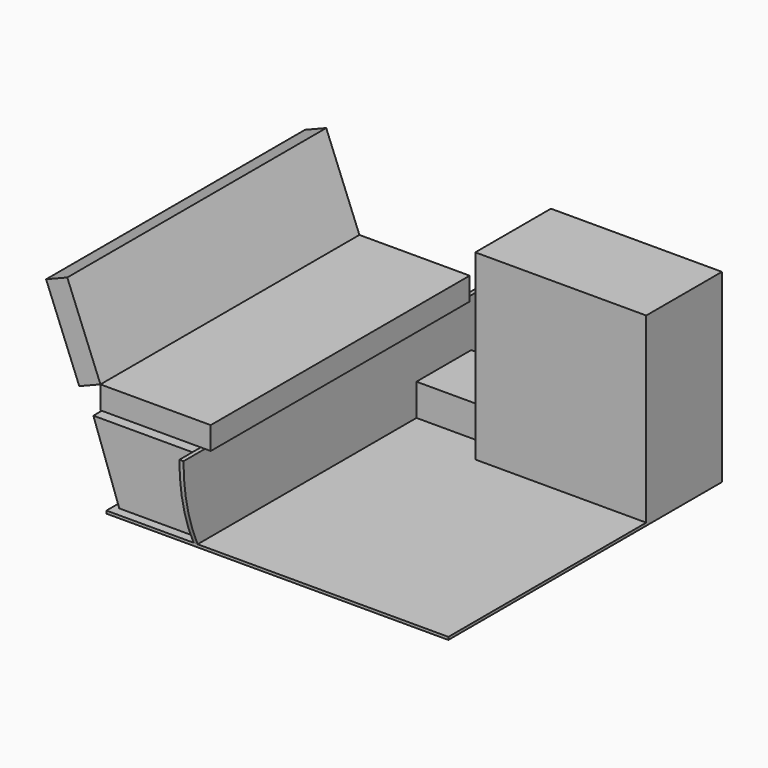
from build123d import *

# Parameters (mm, degrees)
F1_DEPTH  = 12
F6_DEPTH  = 18
F7_DEPTH  = 800
F3_W      = 350
F3_H      = 300
F8_DEPTH  = 140
F10_DEPTH = 710


with BuildPart() as f1:
    # F0 (on Top) → F1 (new body)
    with BuildSketch(Plane.XY):
        Polygon((750, -750), (750, 750), (-750, 750), (-750, 200), (-570, 200), (-570, -200), (-750, -200), (-750, -750), align=None)
    extrude(amount=F1_DEPTH)

    # F5 (on face) → F6 (join)
    with BuildSketch(Plane(origin=(-350, 0, 0), x_dir=(0, -1, 0), z_dir=(-1, 0, 0))):
        with BuildLine():
            ThreePointArc((750, 12), (807.895723, 183.784677), (827.5, 364))
            Line((827.5, 364), (-827.5, 364))
            ThreePointArc((-827.5, 364), (-807.895723, 183.784677), (-750, 12))
            Line((-750, 12), (750, 12))
        make_face()
    extrude(amount=F6_DEPTH)

    # F3 (on face) → F7 (join)
    with BuildSketch(Plane.XY.offset(12)):
        Polygon((750, 335), (750, 750), (0, 750), (0, 450), (0, 335), align=None)
    extrude(amount=F7_DEPTH)

    # F3 (on face) → F8 (join)
    with BuildSketch(Plane.XY.offset(12)):
        with Locations((-175, 600)):
            Rectangle(F3_W, F3_H)
    extrude(amount=F8_DEPTH)

    # F9 (on Front) → F10 (join, symmetric)
    with BuildSketch(Plane.XZ):
        Polygon((-901.234423, 427.000572), (-808.331019, 464), (-953.875601, 829.453945), (-1046.779004, 792.454517), align=None)
        Polygon((-368, 364), (-324.597418, 364), (-324.597418, 464), (-808.331019, 464), (-808.331019, 364), align=None)
        Polygon((-368, 12), (-368, 333.22683), (-839.359641, 333.22683), (-725.695813, 12), align=None)
    extrude(amount=F10_DEPTH, both=True)


solid = f1.part
